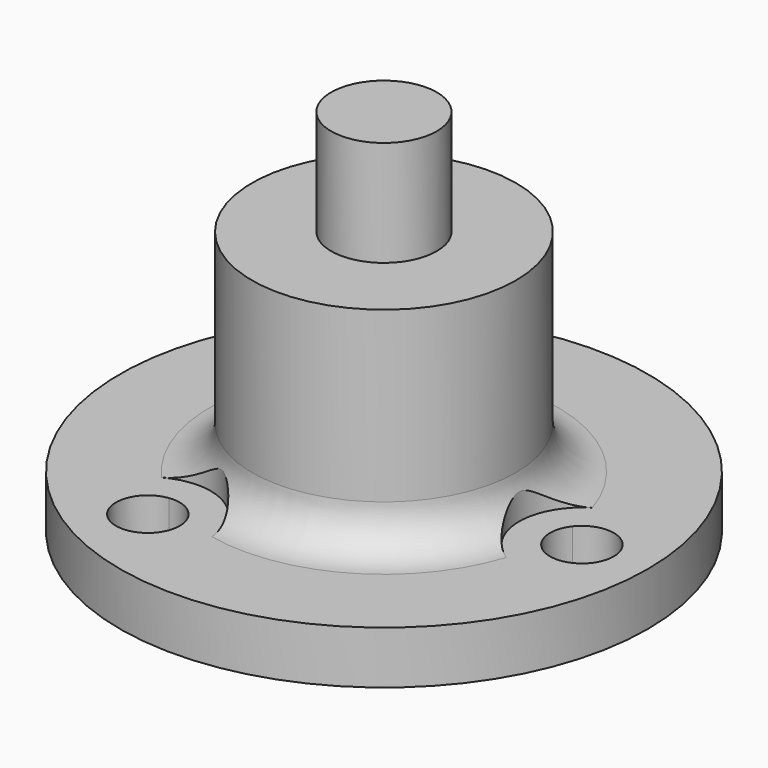
from build123d import *

# Parameters (mm, degrees)
F3_DEPTH = 12.7
F4_DEPTH = 24.001


with BuildPart() as f1:
    # F0 (on Front) → F1 (revolve)
    with BuildSketch(Plane.XZ):
        with BuildLine():
            Line((0, 28), (0, 0))
            Line((0, 0), (20, 0))
            Line((20, 0), (20, 4))
            Line((20, 4), (13.175, 4))
            ThreePointArc((13.175, 4), (10.9299359697, 4.9299359697), (10, 7.175))
            Line((10, 7.175), (10, 20))
            Line((10, 20), (4, 20))
            Line((4, 20), (4, 28))
            Line((4, 28), (0, 28))
        make_face()
    revolve(axis=Axis((0, 0, 14), (0, 0, -1)))

    # F2 (on face) → F3 (cut, symmetric)
    with BuildSketch(Plane.XY.offset(4)):
        with BuildLine():
            ThreePointArc((-7.8251834884, 10.5993928304), (-6.2935, 10.9006617574), (-5.2667517116, 12.0765041054))
            ThreePointArc((-5.2667517116, 12.0765041054), (-6.5875, 11.4098846949), (-7.8251834884, 10.5993928304))
        make_face()
        with BuildLine():
            ThreePointArc((-7.8251834884, 10.5993928304), (-6.5875, 11.4098846949), (-5.2667517116, 12.0765041054))
            ThreePointArc((-5.2667517116, 12.0765041054), (-5.1323643524, 12.5246875524), (-5.087, 12.9903810568))
            ThreePointArc((-5.087, 12.9903810568), (-9.087120229, 14.8079669224), (-7.8251834884, 10.5993928304))
        make_face()
        with BuildLine():
            ThreePointArc((13.0919352, -1.4771112751), (15.7805154187, -2.2832793699), (17.413, 0))
            ThreePointArc((17.413, 0), (15.7805154187, 2.2832793699), (13.0919352, 1.4771112751))
            ThreePointArc((13.0919352, 1.4771112751), (13.1542174085, 0.7397224953), (13.175, 0))
            ThreePointArc((13.175, 0), (13.1542174085, -0.7397224953), (13.0919352, -1.4771112751))
        make_face()
        with BuildLine():
            ThreePointArc((13.175, 0), (13.1542174085, 0.7397224953), (13.0919352, 1.4771112751))
            ThreePointArc((13.0919352, 1.4771112751), (12.587, 0), (13.0919352, -1.4771112751))
            ThreePointArc((13.0919352, -1.4771112751), (13.1542174085, -0.7397224953), (13.175, 0))
        make_face()
        with BuildLine():
            ThreePointArc((-7.8251834884, -10.5993928304), (-6.5875, -11.4098846949), (-5.2667517116, -12.0765041054))
            ThreePointArc((-5.2667517116, -12.0765041054), (-6.2935, -10.9006617574), (-7.8251834884, -10.5993928304))
        make_face()
        with BuildLine():
            ThreePointArc((-5.087, -12.9903810568), (-5.1323643524, -12.5246875524), (-5.2667517116, -12.0765041054))
            ThreePointArc((-5.2667517116, -12.0765041054), (-6.5875, -11.4098846949), (-7.8251834884, -10.5993928304))
            ThreePointArc((-7.8251834884, -10.5993928304), (-9.087120229, -14.8079669224), (-5.087, -12.9903810568))
        make_face()
    extrude(amount=F3_DEPTH, both=True, mode=Mode.SUBTRACT)

    # F2 (on face) → F4 (cut, through all)
    with BuildSketch(Plane.XY.offset(4)):
        with BuildLine():
            ThreePointArc((-5.2667517116, 12.0765041054), (-4.0231580631, 12.545709394), (-2.7386172875, 12.8872262474))
            ThreePointArc((-2.7386172875, 12.8872262474), (-2.7377793301, 12.9388006268), (-2.7375, 12.9903810568))
            ThreePointArc((-2.7375, 12.9903810568), (-9.9257802977, 17.0887949204), (-9.7913566709, 8.8153252659))
            ThreePointArc((-9.7913566709, 8.8153252659), (-8.8533240122, 9.7570117831), (-7.8251834884, 10.5993928304))
            ThreePointArc((-7.8251834884, 10.5993928304), (-9.087120229, 14.8079669224), (-5.087, 12.9903810568))
            ThreePointArc((-5.087, 12.9903810568), (-5.1323643524, 12.5246875524), (-5.2667517116, 12.0765041054))
        make_face()
        with BuildLine():
            ThreePointArc((-9.7913566709, 8.8153252659), (-5.11875, 8.8659350712), (-2.7386172875, 12.8872262474))
            ThreePointArc((-2.7386172875, 12.8872262474), (-4.0231580631, 12.545709394), (-5.2667517116, 12.0765041054))
            ThreePointArc((-5.2667517116, 12.0765041054), (-6.2935, 10.9006617574), (-7.8251834884, 10.5993928304))
            ThreePointArc((-7.8251834884, 10.5993928304), (-8.8533240122, 9.7570117831), (-9.7913566709, 8.8153252659))
        make_face()
        with BuildLine():
            ThreePointArc((13.0919352, -1.4771112751), (12.587, 0), (13.0919352, 1.4771112751))
            ThreePointArc((13.0919352, 1.4771112751), (12.8764820753, 2.788697611), (12.5299739583, 4.0719009815))
            ThreePointArc((12.5299739583, 4.0719009815), (10.2375, 0), (12.5299739583, -4.0719009815))
            ThreePointArc((12.5299739583, -4.0719009815), (12.8764820753, -2.788697611), (13.0919352, -1.4771112751))
        make_face()
        with BuildLine():
            ThreePointArc((13.0919352, 1.4771112751), (15.7805154187, 2.2832793699), (17.413, 0))
            ThreePointArc((17.413, 0), (15.7805154187, -2.2832793699), (13.0919352, -1.4771112751))
            ThreePointArc((13.0919352, -1.4771112751), (12.8764820753, -2.788697611), (12.5299739583, -4.0719009815))
            ThreePointArc((12.5299739583, -4.0719009815), (17.3364403723, -4.1499942936), (19.7625, 0))
            ThreePointArc((19.7625, 0), (17.3364403723, 4.1499942936), (12.5299739583, 4.0719009815))
            ThreePointArc((12.5299739583, 4.0719009815), (12.8764820753, 2.788697611), (13.0919352, 1.4771112751))
        make_face()
        with BuildLine():
            ThreePointArc((-5.2667517116, -12.0765041054), (-4.0231580631, -12.545709394), (-2.7386172875, -12.8872262474))
            ThreePointArc((-2.7386172875, -12.8872262474), (-5.11875, -8.8659350712), (-9.7913566709, -8.8153252659))
            ThreePointArc((-9.7913566709, -8.8153252659), (-8.8533240122, -9.7570117831), (-7.8251834884, -10.5993928304))
            ThreePointArc((-7.8251834884, -10.5993928304), (-6.2935, -10.9006617574), (-5.2667517116, -12.0765041054))
        make_face()
        with BuildLine():
            ThreePointArc((-2.7375, -12.9903810568), (-2.7377793301, -12.9388006268), (-2.7386172875, -12.8872262474))
            ThreePointArc((-2.7386172875, -12.8872262474), (-4.0231580631, -12.545709394), (-5.2667517116, -12.0765041054))
            ThreePointArc((-5.2667517116, -12.0765041054), (-5.1323643524, -12.5246875524), (-5.087, -12.9903810568))
            ThreePointArc((-5.087, -12.9903810568), (-9.087120229, -14.8079669224), (-7.8251834884, -10.5993928304))
            ThreePointArc((-7.8251834884, -10.5993928304), (-8.8533240122, -9.7570117831), (-9.7913566709, -8.8153252659))
            ThreePointArc((-9.7913566709, -8.8153252659), (-9.9257802977, -17.0887949204), (-2.7375, -12.9903810568))
        make_face()
    extrude(amount=F4_DEPTH, mode=Mode.SUBTRACT)


solid = f1.part
